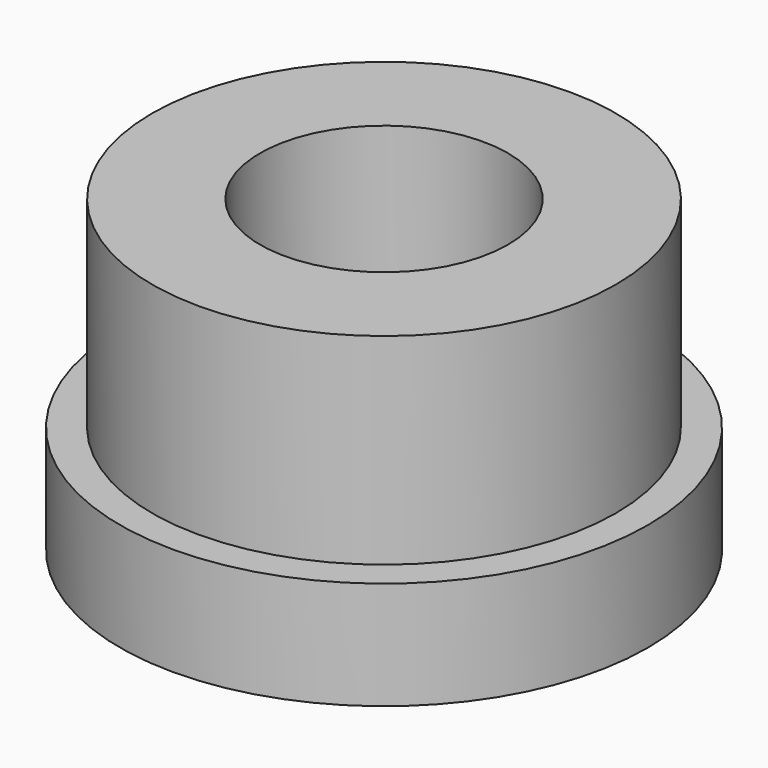
from build123d import *

# Parameters (mm, degrees)
F2_R     = 4.25
F3_DEPTH = 10.601


with BuildPart() as f1:
    # F0 (on Front) → F1 (revolve)
    with BuildSketch(Plane.XZ):
        Polygon((7.95, 0), (0, 0), (0, -10.6), (9.05, -10.6), (9.05, -6.9), (7.95, -6.9), align=None)
    revolve(axis=Axis((0, 0, -5.3), (0, 0, -1)))

    # F2 (on face) → F3 (cut, through all)
    with BuildSketch(Plane.XY):
        Circle(F2_R)
    extrude(amount=-F3_DEPTH, mode=Mode.SUBTRACT)


solid = f1.part
